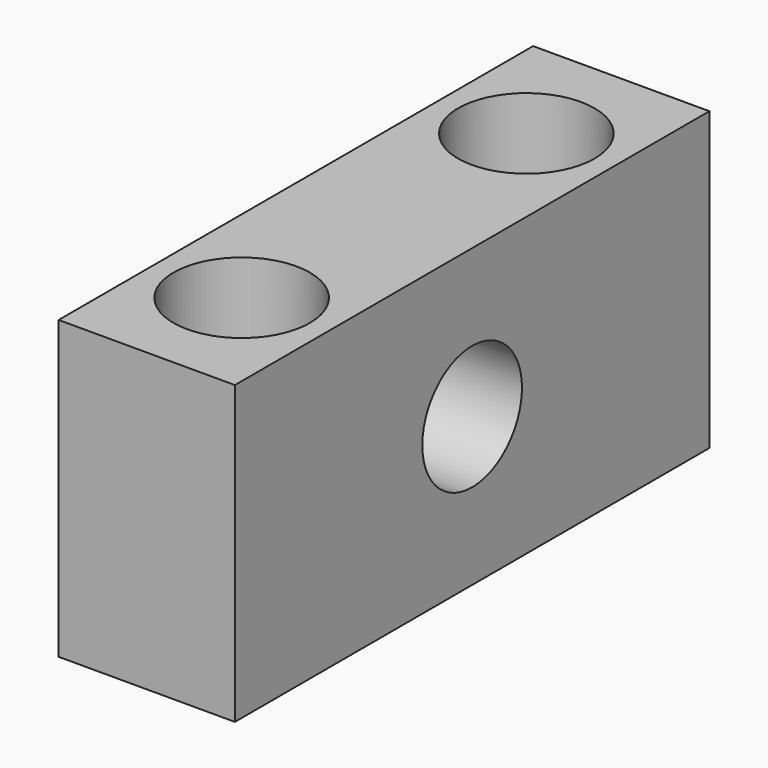
from build123d import *

# Parameters (mm, degrees)
F0_W     = 11.887384
F0_H     = 40
F0_R     = 4.6
F1_DEPTH = 20
F0_R_2   = 2.7
F2_DEPTH = 10
F3_R     = 4.2
F4_DEPTH = 11.887384


with BuildPart() as f1:
    # F0 (on Top) → F1 (new body)
    with BuildSketch(Plane.XY):
        with Locations((-5.943692, -20)):
            Rectangle(F0_W, F0_H)
        with Locations((-5.943692, -32)):
            Circle(F0_R, mode=Mode.SUBTRACT)
        with Locations((-5.943692, -8)):
            Circle(F0_R, mode=Mode.SUBTRACT)
    extrude(amount=F1_DEPTH)

    # F0 (on Top) → F2 (join)
    with BuildSketch(Plane.XY):
        with Locations((-5.943692, -8)):
            Circle(F0_R)
        with Locations((-5.943692, -8)):
            Circle(F0_R_2, mode=Mode.SUBTRACT)
        with Locations((-5.943692, -32)):
            Circle(F0_R)
        with Locations((-5.943692, -32)):
            Circle(F0_R_2, mode=Mode.SUBTRACT)
    extrude(amount=F2_DEPTH)

    # F3 (on face) → F4 (cut, through all)
    with BuildSketch(Plane(origin=(-11.887384, 0, 0), x_dir=(0, -1, 0), z_dir=(-1, 0, 0))):
        with Locations((20, 10)):
            Circle(F3_R)
    extrude(amount=-F4_DEPTH, mode=Mode.SUBTRACT)


solid = f1.part
